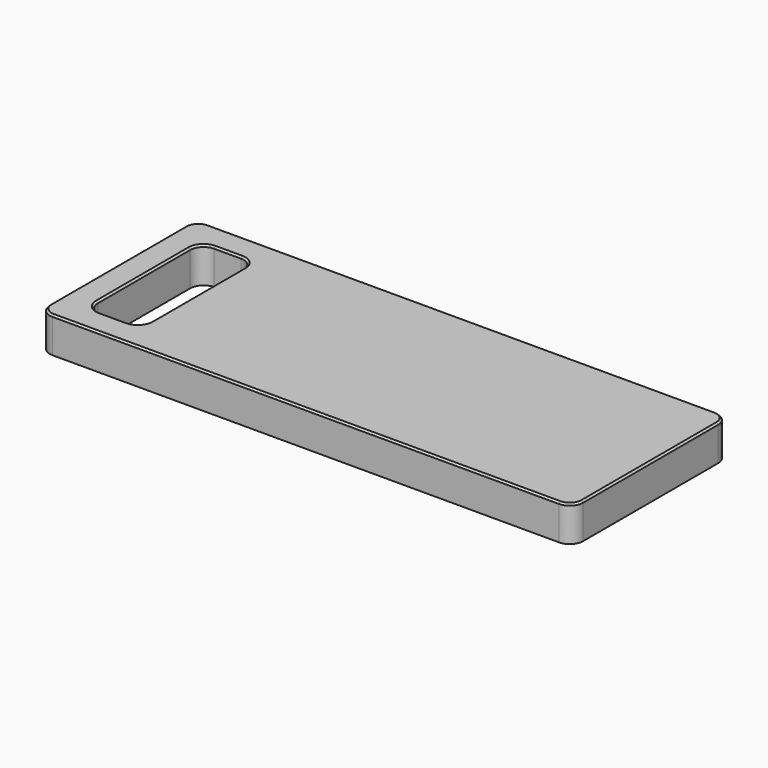
from build123d import *

# Parameters (mm, degrees)
F1_DEPTH = 20
F2_R     = 7.5
F3_SIZE  = 1


with BuildPart() as f1:
    # F0 (on Top) → F1 (new body)
    with BuildSketch(Plane.XY):
        Polygon((0, 55), (0, 0), (300, 0), (300, 110), (0, 110), align=None)
        with BuildLine():
            Line((15, 22.5), (15, 55))
            Line((15, 55), (15, 87.5))
            ThreePointArc((15, 87.5), (17.196699, 92.803301), (22.5, 95))
            Line((22.5, 95), (37.5, 95))
            ThreePointArc((37.5, 95), (42.803301, 92.803301), (45, 87.5))
            Line((45, 87.5), (45, 22.5))
            ThreePointArc((45, 22.5), (42.803301, 17.196699), (37.5, 15))
            Line((37.5, 15), (22.5, 15))
            ThreePointArc((22.5, 15), (17.196699, 17.196699), (15, 22.5))
        make_face(mode=Mode.SUBTRACT)
    extrude(amount=F1_DEPTH)

    # F2
    f2_edges = [f1.edges().sort_by_distance(p)[0] for p in [
        (300, 0, 10),
        (300, 110, 10),
        (0, 0, 10),
        (0, 110, 10),
    ]]
    fillet(f2_edges, radius=F2_R)

    # F3
    f3_edges = [f1.edges().sort_by_distance(p)[0] for p in [
        (0, 55, 20),
        (2.196699, 2.196699, 20),
        (2.196699, 107.803301, 20),
        (150, 0, 20),
        (150, 110, 20),
        (297.803301, 2.196699, 20),
        (297.803301, 107.803301, 20),
        (300, 55, 20),
        (15, 55, 20),
        (17.196699, 92.803301, 20),
        (30, 95, 20),
        (42.803301, 92.803301, 20),
        (45, 55, 20),
        (42.803301, 17.196699, 20),
        (30, 15, 20),
        (17.196699, 17.196699, 20),
    ]]
    chamfer(f3_edges, length=F3_SIZE)


solid = f1.part
